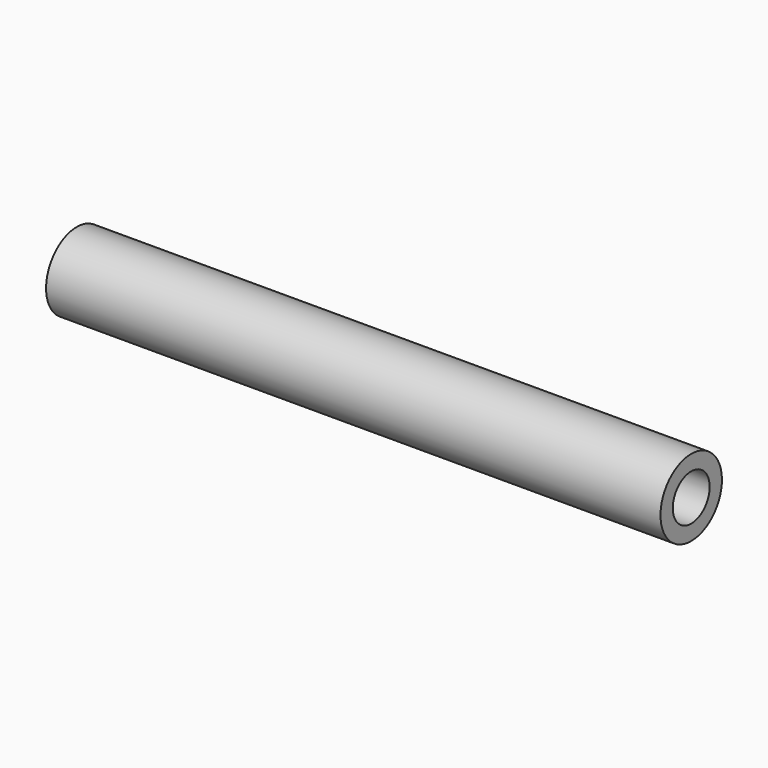
from build123d import *

# Parameters (mm, degrees)
CYLINDER003_R           = 1.5
CYLINDER003_DEPTH       = 44
CYLINDER003_PITCH_ANGLE = 90
CYLINDER002_R           = 2.5
CYLINDER002_DEPTH       = 40
CYLINDER002_PITCH_ANGLE = 90


with BuildPart() as cilindro003:
    # Cylinder003 → Cylinder003 (new body)
    with BuildSketch(Plane.XY):
        Circle(CYLINDER003_R)
    extrude(amount=CYLINDER003_DEPTH)


with BuildPart() as cilindro003_1:
    # Cylinder003 pitch: moved
    add(cilindro003.part.rotate(Axis((0, 0, 0), (0, 1, 0)), CYLINDER003_PITCH_ANGLE))


with BuildPart() as cilindro003_2:
    # Cylinder003 placement: moved
    add(cilindro003_1.part.moved(Location((-2, 0, 0))))


with BuildPart() as soporte2:
    # Cylinder002 → Cylinder002 (new body)
    with BuildSketch(Plane.XY):
        Circle(CYLINDER002_R)
    extrude(amount=CYLINDER002_DEPTH)


with BuildPart() as soporte2_1:
    # Cylinder002 pitch: moved
    add(soporte2.part.rotate(Axis((0, 0, 0), (0, 1, 0)), CYLINDER002_PITCH_ANGLE))


with BuildPart() as soporte2_2:
    # Cylinder002 placement: moved
    add(soporte2_1.part)

    # Cut001: cut Cilindro003
    add(cilindro003_2.part, mode=Mode.SUBTRACT)


with BuildPart() as soporte2_3:
    # Cut001 placement: moved
    add(soporte2_2.part.moved(Location((235, 206.5, 291))))


solid = soporte2_3.part
